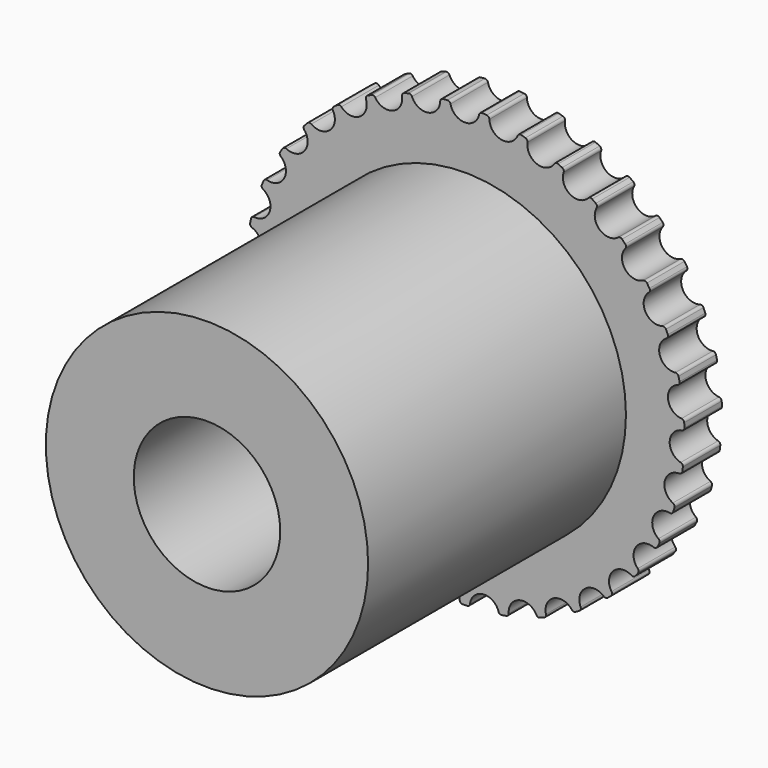
from build123d import *

# Parameters (mm, degrees)
F0_R     = 37.5
F1_DEPTH = 4
F3_DEPTH = 8.001
F4_R     = 27.5
F5_DEPTH = 55
F6_R     = 12.5
F7_DEPTH = 63.001


with BuildPart() as f1:
    # F0 (on Front) → F1 (new body, symmetric)
    with BuildSketch(Plane.XZ):
        Circle(F0_R)
    extrude(amount=F1_DEPTH, both=True)

    # F2 (on face) → F3 (cut, through all)
    with BuildSketch(Plane(origin=(0, 4, 0), x_dir=(-1, 0, 0), z_dir=(0, 1, 0))):
        with BuildLine():
            ThreePointArc((-2.975611, 37.381757), (-2.636471, 37.283734), (-2.446614, 36.986111))
            ThreePointArc((-2.446614, 36.986111), (0, 35), (2.446614, 36.986111))
            ThreePointArc((2.446614, 36.986111), (2.636471, 37.283734), (2.975611, 37.381757))
            Line((2.975611, 37.381757), (1.5, 39.5))
            Line((1.5, 39.5), (-1.5, 39.5))
            Line((-1.5, 39.5), (-2.975611, 37.381757))
        make_face()
        with BuildLine():
            ThreePointArc((-4.19683, 36.828589), (-4.063166, 37.155329), (-3.746979, 37.312332))
            Line((-3.746979, 37.312332), (-5.577103, 39.133054))
            Line((-5.577103, 39.133054), (-8.528892, 38.597383))
            Line((-8.528892, 38.597383), (-9.602562, 36.249701))
            ThreePointArc((-9.602562, 36.249701), (-9.251369, 36.213809), (-9.011421, 35.954869))
            ThreePointArc((-9.011421, 35.954869), (-6.249491, 34.437536), (-4.19683, 36.828589))
        make_face()
        with BuildLine():
            ThreePointArc((-10.705383, 35.487365), (-10.63221, 35.832721), (-10.349137, 36.043659))
            Line((-10.349137, 36.043659), (-12.474953, 37.50834))
            Line((-12.474953, 37.50834), (-15.283658, 36.454215))
            Line((-15.283658, 36.454215), (-15.920879, 33.952549))
            ThreePointArc((-15.920879, 33.952549), (-15.568921, 33.979942), (-15.286593, 33.768009))
            ThreePointArc((-15.286593, 33.768009), (-12.298119, 32.76822), (-10.705383, 35.487365))
        make_face()
        with BuildLine():
            ThreePointArc((-16.869857, 33.005549), (-16.859525, 33.35842), (-16.618666, 33.616513))
            Line((-16.618666, 33.616513), (-18.971848, 34.678076))
            Line((-18.971848, 34.678076), (-21.547195, 33.139378))
            Line((-21.547195, 33.139378), (-21.727486, 30.564135))
            ThreePointArc((-21.727486, 30.564135), (-21.386075, 30.653932), (-21.070442, 30.495816))
            ThreePointArc((-21.070442, 30.495816), (-17.951475, 30.045708), (-16.869857, 33.005549))
        make_face()
        with BuildLine():
            ThreePointArc((-22.49212, 29.462907), (-22.544961, 29.811952), (-22.354058, 30.108904))
            Line((-22.354058, 30.108904), (-24.858972, 30.733231))
            Line((-24.858972, 30.733231), (-27.118187, 28.759415))
            Line((-27.118187, 28.759415), (-26.835753, 26.193365))
            ThreePointArc((-26.835753, 26.193365), (-26.515863, 26.34268), (-26.17707, 26.243463))
            ThreePointArc((-26.17707, 26.243463), (-23.027855, 26.357501), (-22.49212, 29.462907))
        make_face()
        with BuildLine():
            ThreePointArc((-27.391467, 24.973303), (-27.505784, 25.307303), (-27.370971, 25.633571))
            Line((-27.370971, 25.633571), (-29.947109, 25.800594))
            Line((-29.947109, 25.800594), (-31.817578, 23.4551))
            Line((-31.817578, 23.4551), (-31.081498, 20.980718))
            ThreePointArc((-31.081498, 20.980718), (-30.793409, 21.184752), (-30.442345, 21.147624))
            ThreePointArc((-30.442345, 21.147624), (-27.364102, 21.822143), (-27.391467, 24.973303))
        make_face()
        with BuildLine():
            ThreePointArc((-31.410431, 19.681036), (-31.582548, 19.989257), (-31.508159, 20.334353))
            Line((-31.508159, 20.334353), (-34.072721, 20.038705))
            Line((-34.072721, 20.038705), (-35.494327, 17.396919))
            Line((-35.494327, 17.396919), (-34.328257, 15.093733))
            ThreePointArc((-34.328257, 15.093733), (-34.08123, 15.345929), (-33.729178, 15.372082))
            ThreePointArc((-33.729178, 15.372082), (-30.820844, 16.585403), (-31.410431, 19.681036))
        make_face()
        with BuildLine():
            ThreePointArc((-34.419837, 13.756205), (-34.644223, 14.02874), (-34.632649, 14.381573))
            Line((-34.632649, 14.381573), (-37.103207, 13.632756))
            Line((-37.103207, 13.632756), (-38.030258, 10.779587))
            Line((-38.030258, 10.779587), (-36.471678, 8.721624))
            ThreePointArc((-36.471678, 8.721624), (-36.273652, 9.013875), (-35.931927, 9.102469))
            ThreePointArc((-35.931927, 9.102469), (-33.286978, 10.815595), (-34.419837, 13.756205))
        make_face()
        with BuildLine():
            ThreePointArc((-36.322961, 7.389238), (-36.592405, 7.617327), (-36.644017, 7.966556))
            Line((-36.644017, 7.966556), (-38.941166, 6.788639))
            Line((-38.941166, 6.788639), (-39.343865, 3.815789))
            Line((-39.343865, 3.815789), (-37.442869, 2.069194))
            ThreePointArc((-37.442869, 2.069194), (-37.300209, 2.392107), (-36.979795, 2.540295))
            ThreePointArc((-36.979795, 2.540295), (-34.683242, 4.698164), (-36.322961, 7.389238))
        make_face()
        with BuildLine():
            ThreePointArc((-37.058635, 0.784774), (-37.364476, 0.961088), (-37.477616, 1.295489))
            Line((-37.477616, 1.295489), (-39.527523, -0.273671))
            Line((-39.527523, -0.273671), (-39.392929, -3.27065))
            Line((-39.392929, -3.27065), (-37.210616, -4.649741))
            ThreePointArc((-37.210616, -4.649741), (-37.127906, -4.306544), (-36.839102, -4.103526))
            ThreePointArc((-36.839102, -4.103526), (-34.964757, -1.570269), (-37.058635, 0.784774))
        make_face()
        with BuildLine():
            ThreePointArc((-36.603215, -5.844912), (-36.935622, -5.726042), (-37.106654, -5.417217))
            Line((-37.106654, -5.417217), (-38.843434, -7.327185))
            Line((-38.843434, -7.327185), (-38.175871, -10.251969))
            Line((-38.175871, -10.251969), (-35.782382, -11.21923))
            ThreePointArc((-35.782382, -11.21923), (-35.762283, -10.86678), (-35.514369, -10.615456))
            ThreePointArc((-35.514369, -10.615456), (-34.122477, -7.788233), (-36.603215, -5.844912))
        make_face()
        with BuildLine():
            ThreePointArc((-34.971337, -12.286738), (-35.319627, -12.229133), (-35.543053, -11.955809))
            Line((-35.543053, -11.955809), (-36.910885, -14.145197))
            Line((-36.910885, -14.145197), (-35.731809, -16.90378))
            Line((-35.731809, -16.90378), (-33.204074, -17.428123))
            ThreePointArc((-33.204074, -17.428123), (-33.247229, -17.077749), (-33.048176, -16.786197))
            ThreePointArc((-33.048176, -16.786197), (-32.183472, -13.755876), (-34.971337, -12.286738))
        make_face()
        with BuildLine():
            ThreePointArc((-32.215451, -18.333659), (-32.568431, -18.339168), (-32.83707, -18.110131))
            Line((-32.83707, -18.110131), (-33.791989, -20.508571))
            Line((-33.791989, -20.508571), (-32.139298, -23.012291))
            Line((-32.139298, -23.012291), (-29.558559, -23.076862))
            ThreePointArc((-29.558559, -23.076862), (-29.663583, -22.739824), (-29.519787, -22.417415))
            ThreePointArc((-29.519787, -22.417415), (-29.210064, -19.281394), (-32.215451, -18.333659))
        make_face()
        with BuildLine():
            ThreePointArc((-28.424134, -23.79132), (-28.770458, -23.859768), (-29.075676, -23.682379))
            Line((-29.075676, -23.682379), (-29.586991, -26.212782))
            Line((-29.586991, -26.212782), (-27.513803, -28.381167))
            Line((-27.513803, -28.381167), (-24.963008, -27.983892))
            ThreePointArc((-24.963008, -27.983892), (-25.126525, -27.671023), (-25.042608, -27.32812))
            ThreePointArc((-25.042608, -27.32812), (-25.29782, -24.187193), (-28.424134, -23.79132))
        make_face()
        with BuildLine():
            ThreePointArc((-23.719243, -28.484309), (-24.047778, -28.613495), (-24.379765, -28.493456))
            Line((-24.379765, -28.493456), (-24.431043, -31.074493))
            Line((-24.431043, -31.074493), (-22.003992, -32.837849))
            Line((-22.003992, -32.837849), (-19.565125, -31.991497))
            ThreePointArc((-19.565125, -31.991497), (-19.781879, -31.712853), (-19.760539, -31.360476))
            ThreePointArc((-19.760539, -31.360476), (-20.572484, -28.315595), (-23.719243, -28.484309))
        make_face()
        with BuildLine():
            ThreePointArc((-18.251995, -32.261789), (-18.552184, -32.447561), (-18.900269, -32.38873))
            Line((-18.900269, -32.38873), (-18.489861, -34.937445))
            Line((-18.489861, -34.937445), (-15.786954, -36.239096))
            Line((-15.786954, -36.239096), (-13.538403, -34.970868))
            ThreePointArc((-13.538403, -34.970868), (-13.801428, -34.735405), (-13.843349, -34.384881))
            ThreePointArc((-13.843349, -34.384881), (-15.185931, -31.53391), (-18.251995, -32.261789))
        make_face()
        with BuildLine():
            ThreePointArc((-12.198113, -35.002348), (-12.460307, -35.238736), (-12.813303, -35.243003))
            Line((-12.813303, -35.243003), (-11.9544, -37.677478))
            Line((-11.9544, -37.677478), (-9.062511, -38.475588))
            Line((-9.062511, -38.475588), (-7.076546, -36.826247))
            ThreePointArc((-7.076546, -36.826247), (-7.377387, -36.641533), (-7.481224, -36.304127))
            ThreePointArc((-7.481224, -36.304127), (-9.31129, -33.7387), (-12.198113, -35.002348))
        make_face()
        with BuildLine():
            ThreePointArc((-5.752174, -36.617903), (-5.967945, -36.897309), (-6.314507, -36.964537))
            Line((-6.314507, -36.964537), (-5.034714, -39.206526))
            Line((-5.034714, -39.206526), (-2.046791, -39.475444))
            Line((-2.046791, -39.475444), (-0.387243, -37.498001))
            ThreePointArc((-0.387243, -37.498001), (-0.716231, -37.369972), (-0.878645, -37.056529))
            ThreePointArc((-0.878645, -37.056529), (-3.137376, -34.8591), (-5.752174, -36.617903))
        make_face()
        with BuildLine():
            ThreePointArc((0.878645, -37.056529), (0.716231, -37.369972), (0.387243, -37.498001))
            Line((0.387243, -37.498001), (2.046791, -39.475444))
            Line((2.046791, -39.475444), (5.034714, -39.206526))
            Line((5.034714, -39.206526), (6.314507, -36.964537))
            ThreePointArc((6.314507, -36.964537), (5.967945, -36.897309), (5.752174, -36.617903))
            ThreePointArc((5.752174, -36.617903), (3.137376, -34.8591), (0.878645, -37.056529))
        make_face()
        with BuildLine():
            ThreePointArc((7.481224, -36.304127), (7.377387, -36.641533), (7.076546, -36.826247))
            Line((7.076546, -36.826247), (9.062511, -38.475588))
            Line((9.062511, -38.475588), (11.9544, -37.677478))
            Line((11.9544, -37.677478), (12.813303, -35.243003))
            ThreePointArc((12.813303, -35.243003), (12.460307, -35.238736), (12.198113, -35.002348))
            ThreePointArc((12.198113, -35.002348), (9.31129, -33.7387), (7.481224, -36.304127))
        make_face()
        with BuildLine():
            ThreePointArc((13.843349, -34.384881), (13.801428, -34.735405), (13.538403, -34.970868))
            Line((13.538403, -34.970868), (15.786954, -36.239096))
            Line((15.786954, -36.239096), (18.489861, -34.937445))
            Line((18.489861, -34.937445), (18.900269, -32.38873))
            ThreePointArc((18.900269, -32.38873), (18.552184, -32.447561), (18.251995, -32.261789))
            ThreePointArc((18.251995, -32.261789), (15.185931, -31.53391), (13.843349, -34.384881))
        make_face()
        with BuildLine():
            ThreePointArc((19.760539, -31.360476), (19.781879, -31.712853), (19.565125, -31.991497))
            Line((19.565125, -31.991497), (22.003992, -32.837849))
            Line((22.003992, -32.837849), (24.431043, -31.074493))
            Line((24.431043, -31.074493), (24.379765, -28.493456))
            ThreePointArc((24.379765, -28.493456), (24.047778, -28.613495), (23.719243, -28.484309))
            ThreePointArc((23.719243, -28.484309), (20.572484, -28.315595), (19.760539, -31.360476))
        make_face()
        with BuildLine():
            ThreePointArc((25.042608, -27.32812), (25.126525, -27.671023), (24.963008, -27.983892))
            Line((24.963008, -27.983892), (27.513803, -28.381167))
            Line((27.513803, -28.381167), (29.586991, -26.212782))
            Line((29.586991, -26.212782), (29.075676, -23.682379))
            ThreePointArc((29.075676, -23.682379), (28.770458, -23.859768), (28.424134, -23.79132))
            ThreePointArc((28.424134, -23.79132), (25.29782, -24.187193), (25.042608, -27.32812))
        make_face()
        with BuildLine():
            ThreePointArc((29.519787, -22.417415), (29.663583, -22.739824), (29.558559, -23.076862))
            Line((29.558559, -23.076862), (32.139298, -23.012291))
            Line((32.139298, -23.012291), (33.791989, -20.508571))
            Line((33.791989, -20.508571), (32.83707, -18.110131))
            ThreePointArc((32.83707, -18.110131), (32.568431, -18.339168), (32.215451, -18.333659))
            ThreePointArc((32.215451, -18.333659), (29.210064, -19.281394), (29.519787, -22.417415))
        make_face()
        with BuildLine():
            ThreePointArc((33.048176, -16.786197), (33.247229, -17.077749), (33.204074, -17.428123))
            Line((33.204074, -17.428123), (35.731809, -16.90378))
            Line((35.731809, -16.90378), (36.910885, -14.145197))
            Line((36.910885, -14.145197), (35.543053, -11.955809))
            ThreePointArc((35.543053, -11.955809), (35.319627, -12.229133), (34.971337, -12.286738))
            ThreePointArc((34.971337, -12.286738), (32.183472, -13.755876), (33.048176, -16.786197))
        make_face()
        with BuildLine():
            ThreePointArc((35.514369, -10.615456), (35.762283, -10.86678), (35.782382, -11.21923))
            Line((35.782382, -11.21923), (38.175871, -10.251969))
            Line((38.175871, -10.251969), (38.843434, -7.327185))
            Line((38.843434, -7.327185), (37.106654, -5.417217))
            ThreePointArc((37.106654, -5.417217), (36.935622, -5.726042), (36.603215, -5.844912))
            ThreePointArc((36.603215, -5.844912), (34.122477, -7.788233), (35.514369, -10.615456))
        make_face()
        with BuildLine():
            ThreePointArc((36.839102, -4.103526), (37.127906, -4.306544), (37.210616, -4.649741))
            Line((37.210616, -4.649741), (39.392929, -3.27065))
            Line((39.392929, -3.27065), (39.527523, -0.273671))
            Line((39.527523, -0.273671), (37.477616, 1.295489))
            ThreePointArc((37.477616, 1.295489), (37.364476, 0.961088), (37.058635, 0.784774))
            ThreePointArc((37.058635, 0.784774), (34.964757, -1.570269), (36.839102, -4.103526))
        make_face()
        with BuildLine():
            ThreePointArc((36.979795, 2.540295), (37.300209, 2.392107), (37.442869, 2.069194))
            Line((37.442869, 2.069194), (39.343865, 3.815789))
            Line((39.343865, 3.815789), (38.941166, 6.788639))
            Line((38.941166, 6.788639), (36.644017, 7.966556))
            ThreePointArc((36.644017, 7.966556), (36.592405, 7.617327), (36.322961, 7.389238))
            ThreePointArc((36.322961, 7.389238), (34.683242, 4.698164), (36.979795, 2.540295))
        make_face()
        with BuildLine():
            ThreePointArc((35.931927, 9.102469), (36.273652, 9.013875), (36.471678, 8.721624))
            Line((36.471678, 8.721624), (38.030258, 10.779587))
            Line((38.030258, 10.779587), (37.103207, 13.632756))
            Line((37.103207, 13.632756), (34.632649, 14.381573))
            ThreePointArc((34.632649, 14.381573), (34.644223, 14.02874), (34.419837, 13.756205))
            ThreePointArc((34.419837, 13.756205), (33.286978, 10.815595), (35.931927, 9.102469))
        make_face()
        with BuildLine():
            ThreePointArc((33.729178, 15.372082), (34.08123, 15.345929), (34.328257, 15.093733))
            Line((34.328257, 15.093733), (35.494327, 17.396919))
            Line((35.494327, 17.396919), (34.072721, 20.038705))
            Line((34.072721, 20.038705), (31.508159, 20.334353))
            ThreePointArc((31.508159, 20.334353), (31.582548, 19.989257), (31.410431, 19.681036))
            ThreePointArc((31.410431, 19.681036), (30.820844, 16.585403), (33.729178, 15.372082))
        make_face()
        with BuildLine():
            ThreePointArc((30.442345, 21.147624), (30.793409, 21.184752), (31.081498, 20.980718))
            Line((31.081498, 20.980718), (31.817578, 23.4551))
            Line((31.817578, 23.4551), (29.947109, 25.800594))
            Line((29.947109, 25.800594), (27.370971, 25.633571))
            ThreePointArc((27.370971, 25.633571), (27.505784, 25.307303), (27.391467, 24.973303))
            ThreePointArc((27.391467, 24.973303), (27.364102, 21.822143), (30.442345, 21.147624))
        make_face()
        with BuildLine():
            ThreePointArc((26.17707, 26.243463), (26.515863, 26.34268), (26.835753, 26.193365))
            Line((26.835753, 26.193365), (27.118187, 28.759415))
            Line((27.118187, 28.759415), (24.858972, 30.733231))
            Line((24.858972, 30.733231), (22.354058, 30.108904))
            ThreePointArc((22.354058, 30.108904), (22.544961, 29.811952), (22.49212, 29.462907))
            ThreePointArc((22.49212, 29.462907), (23.027855, 26.357501), (26.17707, 26.243463))
        make_face()
        with BuildLine():
            ThreePointArc((21.070442, 30.495816), (21.386075, 30.653932), (21.727486, 30.564135))
            Line((21.727486, 30.564135), (21.547195, 33.139378))
            Line((21.547195, 33.139378), (18.971848, 34.678076))
            Line((18.971848, 34.678076), (16.618666, 33.616513))
            ThreePointArc((16.618666, 33.616513), (16.859525, 33.35842), (16.869857, 33.005549))
            ThreePointArc((16.869857, 33.005549), (17.951475, 30.045708), (21.070442, 30.495816))
        make_face()
        with BuildLine():
            ThreePointArc((15.286593, 33.768009), (15.568921, 33.979942), (15.920879, 33.952549))
            Line((15.920879, 33.952549), (15.283658, 36.454215))
            Line((15.283658, 36.454215), (12.474953, 37.50834))
            Line((12.474953, 37.50834), (10.349137, 36.043659))
            ThreePointArc((10.349137, 36.043659), (10.63221, 35.832721), (10.705383, 35.487365))
            ThreePointArc((10.705383, 35.487365), (12.298119, 32.76822), (15.286593, 33.768009))
        make_face()
        with BuildLine():
            ThreePointArc((9.011421, 35.954869), (9.251369, 36.213809), (9.602562, 36.249701))
            Line((9.602562, 36.249701), (8.528892, 38.597383))
            Line((8.528892, 38.597383), (5.577103, 39.133054))
            Line((5.577103, 39.133054), (3.746979, 37.312332))
            ThreePointArc((3.746979, 37.312332), (4.063166, 37.155329), (4.19683, 36.828589))
            ThreePointArc((4.19683, 36.828589), (6.249491, 34.437536), (9.011421, 35.954869))
        make_face()
    extrude(amount=-F3_DEPTH, mode=Mode.SUBTRACT)

    # F4 (on face) → F5 (join)
    with BuildSketch(Plane.XZ.offset(4)):
        Circle(F4_R)
    extrude(amount=F5_DEPTH)

    # F6 (on face) → F7 (cut, through all)
    with BuildSketch(Plane.XZ.offset(59)):
        Circle(F6_R)
    extrude(amount=-F7_DEPTH, mode=Mode.SUBTRACT)


solid = f1.part
